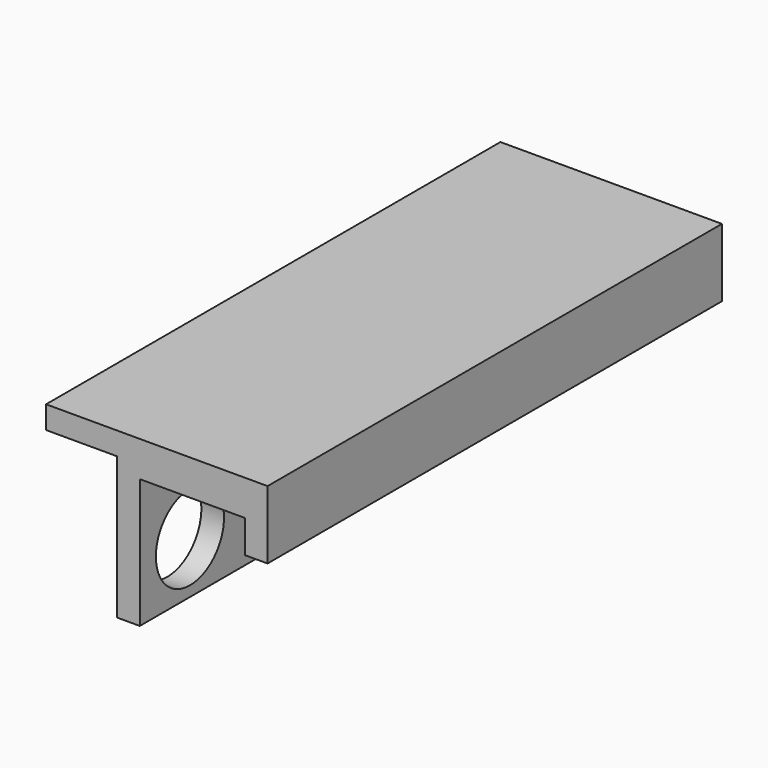
from build123d import *

# Parameters (mm, degrees)
F1_DEPTH = 100
F4_D     = 15


with BuildPart() as f1:
    # F0 (on Front) → F1 (new body)
    with BuildSketch(Plane.XZ):
        Polygon((29.8991873538, 23.8793696377), (29.8991873538, 18.1159283534), (33.8991873538, 18.1159283534), (33.8991873538, 26.1159283534), (33.8991873538, 30.1159283534), (-5.1008126462, 30.1159283534), (-5.1008126462, 26.1159283534), (7.3991873538, 26.1159283534), (7.3991873538, 1.1159283534), (11.3991873538, 1.1159283534), (11.3991873538, 23.8793696377), align=None)
    extrude(amount=F1_DEPTH)


with BuildPart() as f1_1:
    # F2: moved
    add(f1.part.moved(Location((0, 46.4, -0.6))))

    # F4 (through all)
    with Locations(Plane(origin=(0, 0, 0), x_dir=(0, 1, 0), z_dir=(-1, 0, 0))):
        with Locations((35.2738084853, -9.32151151), (15.8158723235, -9.44767434), (-3.6420638382, -9.57383717), (-23.1, -9.7), (-42.5579361618, -9.82616283)):
            Hole(F4_D / 2)


solid = f1_1.part
